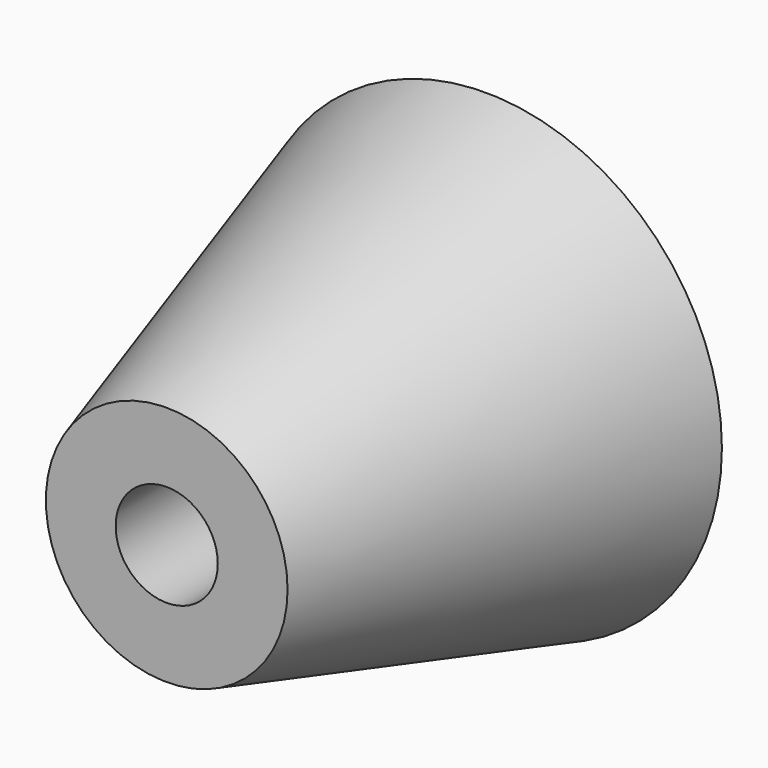
from build123d import *

# Parameters (mm, degrees)
F2_R     = 30.303071
F0_R     = 59.203221
F4_R     = 12.801386
F5_DEPTH = 100.001


with BuildPart() as f3:
    # F2 (on offset) → F3 section 0
    with BuildSketch(Plane.XZ.offset(100)):
        Circle(F2_R)
    # F0 (on Front) → F3 section 1
    with BuildSketch(Plane.XZ):
        Circle(F0_R)
    loft()

    # F4 (on face) → F5 (cut, through all)
    with BuildSketch(Plane.XZ.offset(100)):
        Circle(F4_R)
    extrude(amount=-F5_DEPTH, mode=Mode.SUBTRACT)


solid = f3.part
